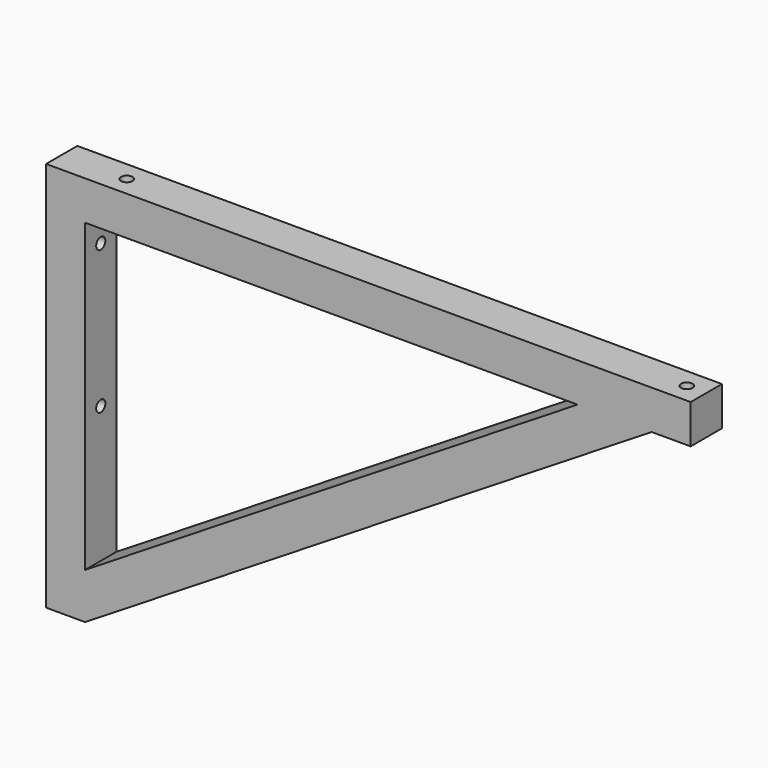
from build123d import *

# Parameters (mm, degrees)
F1_DEPTH = 30
F3_D     = 8.8
F3_DEPTH = 30
F3_TIP   = 2.6437867237
F5_D     = 8.8
F5_DEPTH = 30
F5_TIP   = 2.6437867237


with BuildPart() as f1:
    # F0 (on Front) → F1 (new body)
    with BuildSketch(Plane.XZ):
        Polygon((495, 0), (0, 0), (0, -300), (30, -300), (465, -30), (495, -30), align=None)
        Polygon((30, -264.6909348292), (30, -30), (408.1131727804, -30), align=None, mode=Mode.SUBTRACT)
    extrude(amount=F1_DEPTH)

    # F3
    with Locations(Plane(origin=(0, 0, 0), x_dir=(0, -1, 0), z_dir=(-1, 0, 0))):
        with Locations((15, -50), (15, -160)):
            Hole(F3_D / 2, depth=F3_DEPTH)
            with Locations((0, 0, -(F3_DEPTH + F3_TIP / 2))):  # 118° drill point
                Cone(0, F3_D / 2, F3_TIP, mode=Mode.SUBTRACT)

    # F5
    with Locations(Plane.XY):
        with Locations((480, -15), (50, -15)):
            Hole(F5_D / 2, depth=F5_DEPTH)
            with Locations((0, 0, -(F5_DEPTH + F5_TIP / 2))):  # 118° drill point
                Cone(0, F5_D / 2, F5_TIP, mode=Mode.SUBTRACT)


solid = f1.part
